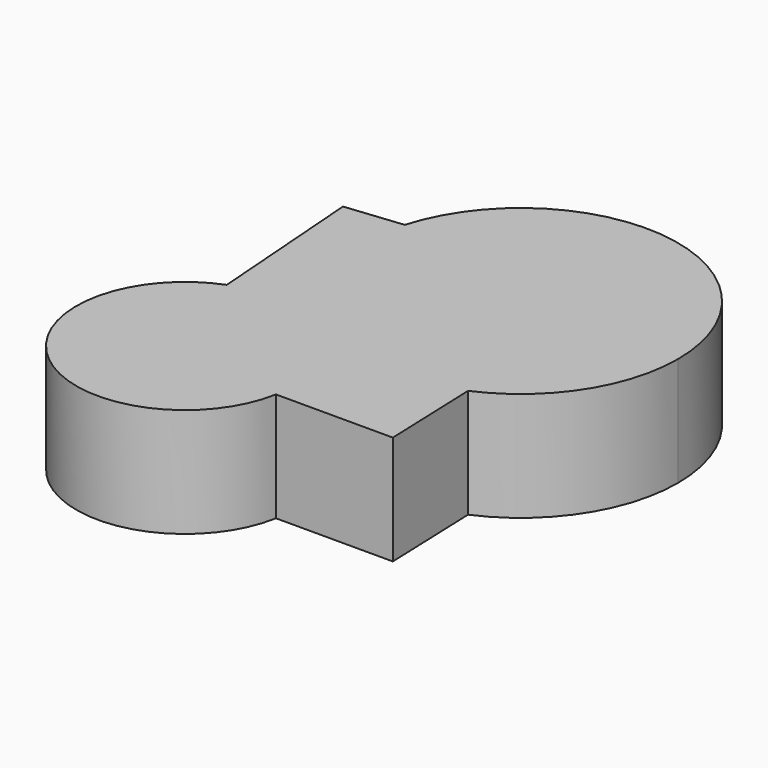
from build123d import *

# Parameters (mm, degrees)
F1_DEPTH = 25.4


with BuildPart() as f1:
    # F0 (on Top) → F1 (new body)
    with BuildSketch(Plane.XY):
        with BuildLine():
            Line((12.848321, 49.349234), (-35.185337, 44.317135))
            ThreePointArc((-35.185337, 44.317135), (-24.226706, 6.534259), (14.637821, 0.436242))
            Line((14.637821, 0.436242), (12.848321, 49.349234))
        make_face()
        with BuildLine():
            ThreePointArc((36.655048, 34.041699), (5.190005, 70.327459), (-35.185337, 44.317135))
            Line((-35.185337, 44.317135), (12.848321, 49.349234))
            Line((12.848321, 49.349234), (14.637821, 0.436242))
            ThreePointArc((14.637821, 0.436242), (30.660582, 13.953861), (36.655048, 34.041699))
        make_face()
        with BuildLine():
            Line((-44.286254, -13.337183), (-45.69764, 5.628323))
            ThreePointArc((-45.69764, 5.628323), (-52.717866, -37.397817), (-11.752916, -22.484561))
            Line((-11.752916, -22.484561), (-43.801095, -22.484561))
            Line((-43.801095, -22.484561), (-44.286254, -13.337183))
        make_face()
        with BuildLine():
            ThreePointArc((-11.341014, -17.941203), (-22.312643, 2.890866), (-45.69764, 5.628323))
            Line((-45.69764, 5.628323), (-44.286254, -13.337183))
            Line((-44.286254, -13.337183), (-43.801095, -22.484561))
            Line((-43.801095, -22.484561), (-11.752916, -22.484561))
            ThreePointArc((-11.752916, -22.484561), (-11.4442, -20.222199), (-11.341014, -17.941203))
        make_face()
        with BuildLine():
            Line((-35.185337, 44.317135), (-48.473213, 42.925071))
            Line((-48.473213, 42.925071), (-45.69764, 5.628323))
            ThreePointArc((-45.69764, 5.628323), (-22.312643, 2.890866), (-11.341014, -17.941203))
            ThreePointArc((-11.341014, -17.941203), (-11.4442, -20.222199), (-11.752916, -22.484561))
            Line((-11.752916, -22.484561), (15.476387, -22.484561))
            Line((15.476387, -22.484561), (14.637821, 0.436242))
            ThreePointArc((14.637821, 0.436242), (-24.226706, 6.534259), (-35.185337, 44.317135))
        make_face()
    extrude(amount=F1_DEPTH)


solid = f1.part
